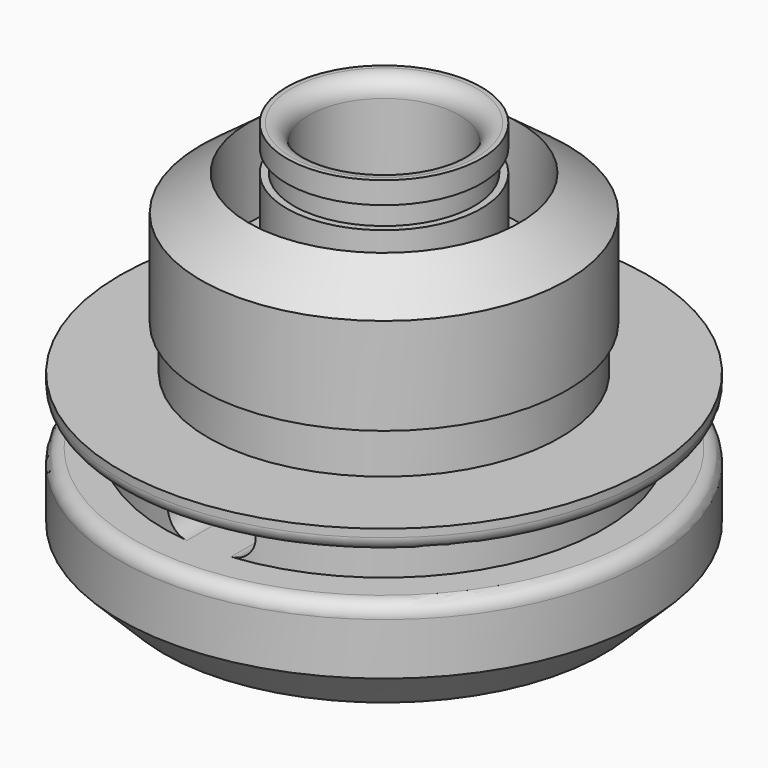
from build123d import *

# Parameters (mm, degrees)
F2_SIZE  = 3.175
F4_DEPTH = 25.4
F5_R     = 1.016
F6_R     = 1.27


with BuildPart() as f1:
    # F0 (on Front) → F1 (revolve)
    with BuildSketch(Plane.XZ):
        Polygon((-19.05, -12.7), (-5.4229, -12.7), (-5.4229, 15.875), (-7.0104, 15.875), (-7.0104, 14.2875), (-6.5024, 14.2875), (-6.5024, 12.7), (-7.0104, 12.7), (-7.0104, 6.35), (-9.779, 6.35), (-9.779, 12.7), (-13.208, 10.16), (-13.208, 6.35), (-13.208, 3.175), (-12.7, 3.175), (-12.7, 0), (-19.05, 0), (-19.05, -1.5875), (-15.875, -1.5875), (-15.875, -4.7625), (-19.05, -4.7625), align=None)
    revolve(axis=Axis((0, 0, 5.660842), (0, 0, -1)))

    # F2
    f2_edges = [f1.edges().sort_by_distance(p)[0] for p in [
        (19.05, 0, -12.7),
    ]]
    chamfer(f2_edges, length=F2_SIZE)

    # F3 (on Front) → F4 (cut)
    with BuildSketch(Plane.XZ):
        with BuildLine():
            ThreePointArc((1.5875, -4.7625), (3.175, -3.175), (1.5875, -1.5875))
            Line((1.5875, -1.5875), (-1.5875, -1.5875))
            ThreePointArc((-1.5875, -1.5875), (-3.175, -3.175), (-1.5875, -4.7625))
            Line((-1.5875, -4.7625), (1.5875, -4.7625))
        make_face()
    extrude(amount=F4_DEPTH, mode=Mode.SUBTRACT)

    # F5
    f5_edges = [f1.edges().sort_by_distance(p)[0] for p in [
        (19.05, 0, -1.5875),
        (19.05, 0, -4.7625),
    ]]
    fillet(f5_edges, radius=F5_R)

    # F6
    f6_edges = [f1.edges().sort_by_distance(p)[0] for p in [
        (5.4229, 0, 15.875),
    ]]
    fillet(f6_edges, radius=F6_R)


solid = f1.part
